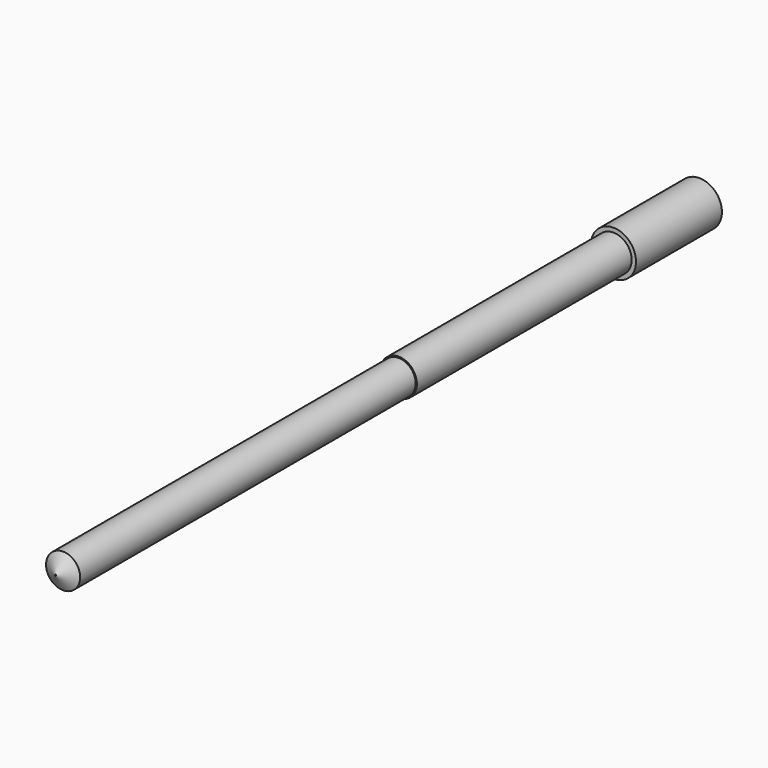
from build123d import *

# Parameters (mm, degrees)
F0_R     = 3.175
F1_DEPTH = 149.86
F2_SIZE2 = 3.048
F2_SIZE  = 1.7597636205
F3_R     = 3.4
F4_DEPTH = 70
F5_R     = 4.2017465395
F6_DEPTH = 20


with BuildPart() as f1:
    # F0 (on Front) → F1 (new body)
    with BuildSketch(Plane.XZ):
        Circle(F0_R)
    extrude(amount=F1_DEPTH)

    # F2
    f2_edges = [f1.edges().sort_by_distance(p)[0] for p in [
        (-3.175, -149.86, 0),
    ]]
    f2_side = f1.faces().sort_by_distance((-3.175, -74.93, 0))[0]
    chamfer(f2_edges, length=F2_SIZE, length2=F2_SIZE2, reference=f2_side)

    # F3 (on Front) → F4 (join)
    with BuildSketch(Plane.XZ):
        Circle(F3_R)
    extrude(amount=F4_DEPTH)

    # F5 (on Front) → F6 (join)
    with BuildSketch(Plane.XZ):
        Circle(F5_R)
    extrude(amount=F6_DEPTH)


solid = f1.part
